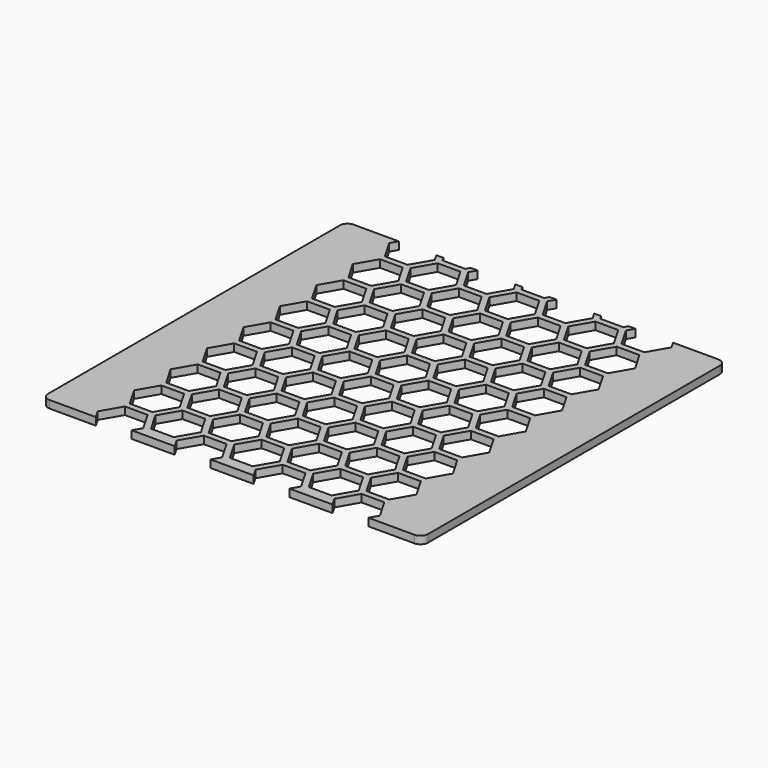
from build123d import *

# Parameters (mm, degrees)
F1_DEPTH = 2.5
F3_DEPTH = 25


with BuildPart() as f1:
    # F0 (on Top) → F1 (new body)
    with BuildSketch(Plane.XY):
        with BuildLine():
            ThreePointArc((62.5, 60), (61.767767, 61.767767), (60, 62.5))
            Line((60, 62.5), (-60, 62.5))
            ThreePointArc((-60, 62.5), (-61.767767, 61.767767), (-62.5, 60))
            Line((-62.5, 60), (-62.5, -60))
            ThreePointArc((-62.5, -60), (-61.767767, -61.767767), (-60, -62.5))
            Line((-60, -62.5), (60, -62.5))
            ThreePointArc((60, -62.5), (61.767767, -61.767767), (62.5, -60))
            Line((62.5, -60), (62.5, 60))
        make_face()
    extrude(amount=F1_DEPTH)

    # F2 (on Top) → F3 (cut)
    with BuildSketch(Plane.XY):
        Polygon((3.749999, -58.71811), (7.499999, -52.222919), (3.749999, -45.727729), (-3.750001, -45.727729), (-7.500001, -52.222919), (-3.750001, -58.71811), align=None)
        Polygon((-9.232052, -53.222919), (-16.732052, -53.222919), (-20.482052, -59.71811), (-16.732052, -66.2133), (-9.232052, -66.2133), (-5.482052, -59.71811), align=None)
        Polygon((9.23205, -53.222919), (5.48205, -59.71811), (9.23205, -66.2133), (16.73205, -66.2133), (20.48205, -59.71811), (16.73205, -53.222919), align=None)
        Polygon((33.464099, -52.222919), (29.714099, -45.727729), (22.214099, -45.727729), (18.464099, -52.222919), (22.214099, -58.71811), (29.714099, -58.71811), align=None)
        Polygon((35.19615, -66.2133), (42.69615, -66.2133), (46.44615, -59.71811), (42.69615, -53.222919), (35.19615, -53.222919), (31.44615, -59.71811), align=None)
        Polygon((-42.696152, -66.2133), (-35.196152, -66.2133), (-31.446152, -59.71811), (-35.196152, -53.222919), (-42.696152, -53.222919), (-46.446152, -59.71811), align=None)
        Polygon((-33.464101, -52.222919), (-29.714101, -58.71811), (-22.214101, -58.71811), (-18.464101, -52.222919), (-22.214101, -45.727729), (-29.714101, -45.727729), align=None)
        Polygon((3.749999, -30.737349), (-3.750001, -30.737349), (-7.500001, -37.232539), (-3.750001, -43.72773), (3.749999, -43.72773), (7.499999, -37.232539), align=None)
        Polygon((-16.732052, -38.232539), (-20.482052, -44.72773), (-16.732052, -51.22292), (-9.232052, -51.22292), (-5.482052, -44.72773), (-9.232052, -38.232539), align=None)
        Polygon((42.69615, -38.232539), (35.19615, -38.232539), (31.44615, -44.72773), (35.19615, -51.22292), (42.69615, -51.22292), (46.44615, -44.72773), align=None)
        Polygon((16.73205, -38.232539), (9.23205, -38.232539), (5.48205, -44.72773), (9.23205, -51.22292), (16.73205, -51.22292), (20.48205, -44.72773), align=None)
        Polygon((29.714099, -43.72773), (33.464099, -37.232539), (29.714099, -30.737349), (22.214099, -30.737349), (18.464099, -37.232539), (22.214099, -43.72773), align=None)
        Polygon((-29.714101, -43.72773), (-22.214101, -43.72773), (-18.464101, -37.232539), (-22.214101, -30.737349), (-29.714101, -30.737349), (-33.464101, -37.232539), align=None)
        Polygon((-35.196152, -51.22292), (-31.446152, -44.72773), (-35.196152, -38.232539), (-42.696152, -38.232539), (-46.446152, -44.72773), (-42.696152, -51.22292), align=None)
        Polygon((3.749999, -15.746969), (-3.750001, -15.746969), (-7.500001, -22.242159), (-3.750001, -28.73735), (3.749999, -28.73735), (7.499999, -22.242159), align=None)
        Polygon((-16.732052, -23.242159), (-20.482052, -29.73735), (-16.732052, -36.23254), (-9.232052, -36.23254), (-5.482052, -29.73735), (-9.232052, -23.242159), align=None)
        Polygon((42.69615, -23.242159), (35.19615, -23.242159), (31.44615, -29.73735), (35.19615, -36.23254), (42.69615, -36.23254), (46.44615, -29.73735), align=None)
        Polygon((16.73205, -23.242159), (9.23205, -23.242159), (5.48205, -29.73735), (9.23205, -36.23254), (16.73205, -36.23254), (20.48205, -29.73735), align=None)
        Polygon((29.714099, -28.73735), (33.464099, -22.242159), (29.714099, -15.746969), (22.214099, -15.746969), (18.464099, -22.242159), (22.214099, -28.73735), align=None)
        Polygon((-29.714101, -28.73735), (-22.214101, -28.73735), (-18.464101, -22.242159), (-22.214101, -15.746969), (-29.714101, -15.746969), (-33.464101, -22.242159), align=None)
        Polygon((-35.196152, -36.23254), (-31.446152, -29.73735), (-35.196152, -23.242159), (-42.696152, -23.242159), (-46.446152, -29.73735), (-42.696152, -36.23254), align=None)
        Polygon((3.749999, -0.756589), (-3.750001, -0.756589), (-7.500001, -7.251779), (-3.750001, -13.74697), (3.749999, -13.74697), (7.499999, -7.251779), align=None)
        Polygon((-16.732052, -8.251779), (-20.482052, -14.74697), (-16.732052, -21.24216), (-9.232052, -21.24216), (-5.482052, -14.74697), (-9.232052, -8.251779), align=None)
        Polygon((42.69615, -8.251779), (35.19615, -8.251779), (31.44615, -14.74697), (35.19615, -21.24216), (42.69615, -21.24216), (46.44615, -14.74697), align=None)
        Polygon((16.73205, -8.251779), (9.23205, -8.251779), (5.48205, -14.74697), (9.23205, -21.24216), (16.73205, -21.24216), (20.48205, -14.74697), align=None)
        Polygon((29.714099, -13.74697), (33.464099, -7.251779), (29.714099, -0.756589), (22.214099, -0.756589), (18.464099, -7.251779), (22.214099, -13.74697), align=None)
        Polygon((-29.714101, -13.74697), (-22.214101, -13.74697), (-18.464101, -7.251779), (-22.214101, -0.756589), (-29.714101, -0.756589), (-33.464101, -7.251779), align=None)
        Polygon((-35.196152, -21.24216), (-31.446152, -14.74697), (-35.196152, -8.251779), (-42.696152, -8.251779), (-46.446152, -14.74697), (-42.696152, -21.24216), align=None)
        Polygon((3.749999, 14.233791), (-3.750001, 14.233791), (-7.500001, 7.738601), (-3.750001, 1.24341), (3.749999, 1.24341), (7.499999, 7.738601), align=None)
        Polygon((-16.732052, 6.738601), (-20.482052, 0.24341), (-16.732052, -6.25178), (-9.232052, -6.25178), (-5.482052, 0.24341), (-9.232052, 6.738601), align=None)
        Polygon((42.69615, 6.738601), (35.19615, 6.738601), (31.44615, 0.24341), (35.19615, -6.25178), (42.69615, -6.25178), (46.44615, 0.24341), align=None)
        Polygon((16.73205, 6.738601), (9.23205, 6.738601), (5.48205, 0.24341), (9.23205, -6.25178), (16.73205, -6.25178), (20.48205, 0.24341), align=None)
        Polygon((29.714099, 1.24341), (33.464099, 7.738601), (29.714099, 14.233791), (22.214099, 14.233791), (18.464099, 7.738601), (22.214099, 1.24341), align=None)
        Polygon((-29.714101, 1.24341), (-22.214101, 1.24341), (-18.464101, 7.738601), (-22.214101, 14.233791), (-29.714101, 14.233791), (-33.464101, 7.738601), align=None)
        Polygon((-35.196152, -6.25178), (-31.446152, 0.24341), (-35.196152, 6.738601), (-42.696152, 6.738601), (-46.446152, 0.24341), (-42.696152, -6.25178), align=None)
        Polygon((3.749999, 29.224171), (-3.750001, 29.224171), (-7.500001, 22.728981), (-3.750001, 16.23379), (3.749999, 16.23379), (7.499999, 22.728981), align=None)
        Polygon((-16.732052, 21.728981), (-20.482052, 15.23379), (-16.732052, 8.7386), (-9.232052, 8.7386), (-5.482052, 15.23379), (-9.232052, 21.728981), align=None)
        Polygon((42.69615, 21.728981), (35.19615, 21.728981), (31.44615, 15.23379), (35.19615, 8.7386), (42.69615, 8.7386), (46.44615, 15.23379), align=None)
        Polygon((16.73205, 21.728981), (9.23205, 21.728981), (5.48205, 15.23379), (9.23205, 8.7386), (16.73205, 8.7386), (20.48205, 15.23379), align=None)
        Polygon((29.714099, 16.23379), (33.464099, 22.728981), (29.714099, 29.224171), (22.214099, 29.224171), (18.464099, 22.728981), (22.214099, 16.23379), align=None)
        Polygon((-29.714101, 16.23379), (-22.214101, 16.23379), (-18.464101, 22.728981), (-22.214101, 29.224171), (-29.714101, 29.224171), (-33.464101, 22.728981), align=None)
        Polygon((-35.196152, 8.7386), (-31.446152, 15.23379), (-35.196152, 21.728981), (-42.696152, 21.728981), (-46.446152, 15.23379), (-42.696152, 8.7386), align=None)
        Polygon((3.749999, 44.214551), (-3.750001, 44.214551), (-7.500001, 37.719361), (-3.750001, 31.22417), (3.749999, 31.22417), (7.499999, 37.719361), align=None)
        Polygon((-16.732052, 36.719361), (-20.482052, 30.22417), (-16.732052, 23.72898), (-9.232052, 23.72898), (-5.482052, 30.22417), (-9.232052, 36.719361), align=None)
        Polygon((42.69615, 36.719361), (35.19615, 36.719361), (31.44615, 30.22417), (35.19615, 23.72898), (42.69615, 23.72898), (46.44615, 30.22417), align=None)
        Polygon((16.73205, 36.719361), (9.23205, 36.719361), (5.48205, 30.22417), (9.23205, 23.72898), (16.73205, 23.72898), (20.48205, 30.22417), align=None)
        Polygon((29.714099, 31.22417), (33.464099, 37.719361), (29.714099, 44.214551), (22.214099, 44.214551), (18.464099, 37.719361), (22.214099, 31.22417), align=None)
        Polygon((-29.714101, 31.22417), (-22.214101, 31.22417), (-18.464101, 37.719361), (-22.214101, 44.214551), (-29.714101, 44.214551), (-33.464101, 37.719361), align=None)
        Polygon((-35.196152, 23.72898), (-31.446152, 30.22417), (-35.196152, 36.719361), (-42.696152, 36.719361), (-46.446152, 30.22417), (-42.696152, 23.72898), align=None)
        Polygon((3.749999, 59.204931), (-3.750001, 59.204931), (-7.500001, 52.709741), (-3.750001, 46.21455), (3.749999, 46.21455), (7.499999, 52.709741), align=None)
        Polygon((-16.732052, 51.709741), (-20.482052, 45.21455), (-16.732052, 38.71936), (-9.232052, 38.71936), (-5.482052, 45.21455), (-9.232052, 51.709741), align=None)
        Polygon((42.69615, 51.709741), (35.19615, 51.709741), (31.44615, 45.21455), (35.19615, 38.71936), (42.69615, 38.71936), (46.44615, 45.21455), align=None)
        Polygon((16.73205, 51.709741), (9.23205, 51.709741), (5.48205, 45.21455), (9.23205, 38.71936), (16.73205, 38.71936), (20.48205, 45.21455), align=None)
        Polygon((29.714099, 46.21455), (33.464099, 52.709741), (29.714099, 59.204931), (22.214099, 59.204931), (18.464099, 52.709741), (22.214099, 46.21455), align=None)
        Polygon((-29.714101, 46.21455), (-22.214101, 46.21455), (-18.464101, 52.709741), (-22.214101, 59.204931), (-29.714101, 59.204931), (-33.464101, 52.709741), align=None)
        Polygon((-35.196152, 38.71936), (-31.446152, 45.21455), (-35.196152, 51.709741), (-42.696152, 51.709741), (-46.446152, 45.21455), (-42.696152, 38.71936), align=None)
        Polygon((3.749999, 74.195311), (-3.750001, 74.195311), (-7.500001, 67.700121), (-3.750001, 61.20493), (3.749999, 61.20493), (7.499999, 67.700121), align=None)
        Polygon((-16.732052, 66.700121), (-20.482052, 60.20493), (-16.732052, 53.70974), (-9.232052, 53.70974), (-5.482052, 60.20493), (-9.232052, 66.700121), align=None)
        Polygon((42.69615, 66.700121), (35.19615, 66.700121), (31.44615, 60.20493), (35.19615, 53.70974), (42.69615, 53.70974), (46.44615, 60.20493), align=None)
        Polygon((16.73205, 66.700121), (9.23205, 66.700121), (5.48205, 60.20493), (9.23205, 53.70974), (16.73205, 53.70974), (20.48205, 60.20493), align=None)
        Polygon((29.714099, 61.20493), (33.464099, 67.700121), (29.714099, 74.195311), (22.214099, 74.195311), (18.464099, 67.700121), (22.214099, 61.20493), align=None)
        Polygon((-29.714101, 61.20493), (-22.214101, 61.20493), (-18.464101, 67.700121), (-22.214101, 74.195311), (-29.714101, 74.195311), (-33.464101, 67.700121), align=None)
        Polygon((-35.196152, 53.70974), (-31.446152, 60.20493), (-35.196152, 66.700121), (-42.696152, 66.700121), (-46.446152, 60.20493), (-42.696152, 53.70974), align=None)
    extrude(amount=F3_DEPTH, mode=Mode.SUBTRACT)


solid = f1.part
